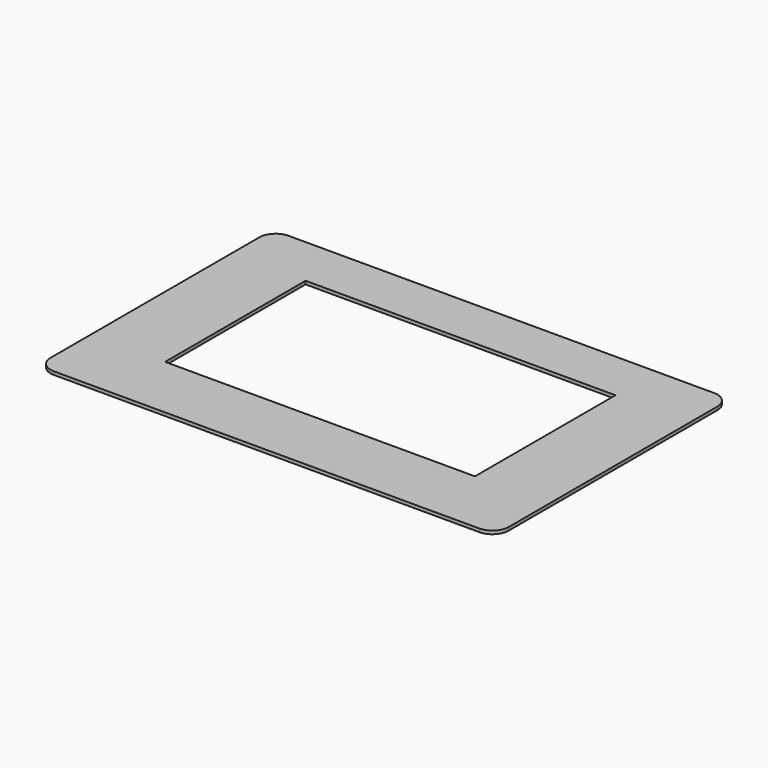
from build123d import *

# Parameters (mm, degrees)
F0_W     = 140.5
F0_H     = 90
F0_W_2   = 120.5
F0_H_2   = 69.3
F0_W_3   = 95.04
F0_H_3   = 53.86
F1_DEPTH = 1
F2_R     = 5


with BuildPart() as f1:
    # F0 (on Top) → F1 (new body)
    with BuildSketch(Plane.XY):
        Rectangle(F0_W, F0_H)
        Rectangle(F0_W_2, F0_H_2, mode=Mode.SUBTRACT)
        Rectangle(F0_W_2, F0_H_2)
        with Locations((0, 2.4)):
            Rectangle(F0_W_3, F0_H_3, mode=Mode.SUBTRACT)
    extrude(amount=F1_DEPTH)

    # F2
    f2_edges = [f1.edges().sort_by_distance(p)[0] for p in [
        (-70.25, 45, 0.5),
        (-70.25, -45, 0.5),
        (70.25, -45, 0.5),
        (70.25, 45, 0.5),
    ]]
    fillet(f2_edges, radius=F2_R)


solid = f1.part
